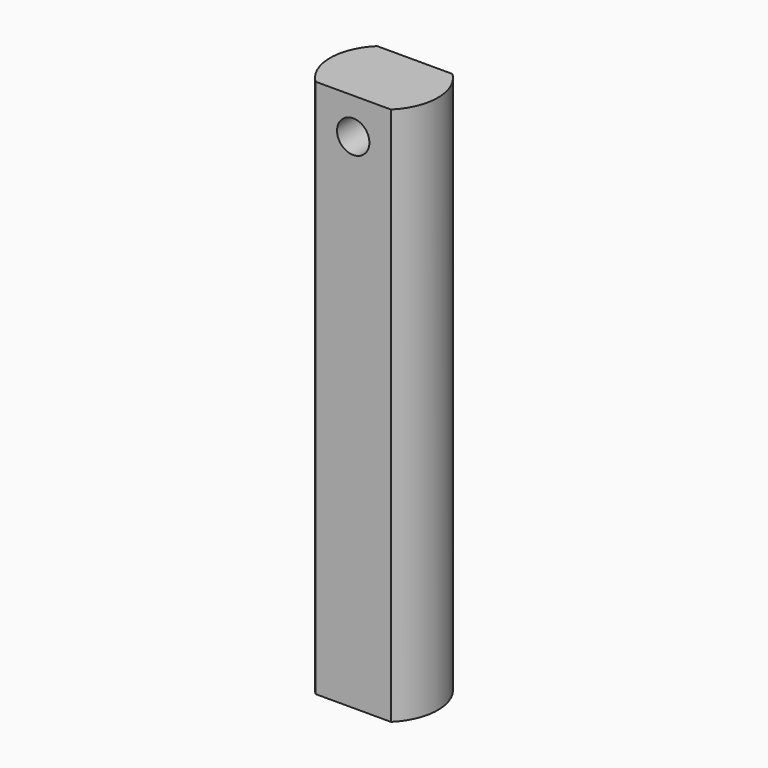
from build123d import *

# Parameters (mm, degrees)
F1_DEPTH = 127
F2_R     = 3.81
F3_DEPTH = 25.4


with BuildPart() as f1:
    # F0 (on Top) → F1 (new body)
    with BuildSketch(Plane.XY):
        with BuildLine():
            Line((-69.842533, -34.782482), (-52.062533, -34.782482))
            ThreePointArc((-52.062533, -34.782482), (-48.252533, -25.712868), (-52.062533, -16.643254))
            Line((-52.062533, -16.643254), (-69.842533, -16.643254))
            ThreePointArc((-69.842533, -16.643254), (-73.652533, -25.712868), (-69.842533, -34.782482))
        make_face()
    extrude(amount=F1_DEPTH)

    # F2 (on face) → F3 (cut)
    with BuildSketch(Plane.XZ.offset(34.782482)):
        with Locations((-60.952533, 118.483543)):
            Circle(F2_R)
    extrude(amount=-F3_DEPTH, mode=Mode.SUBTRACT)


solid = f1.part
